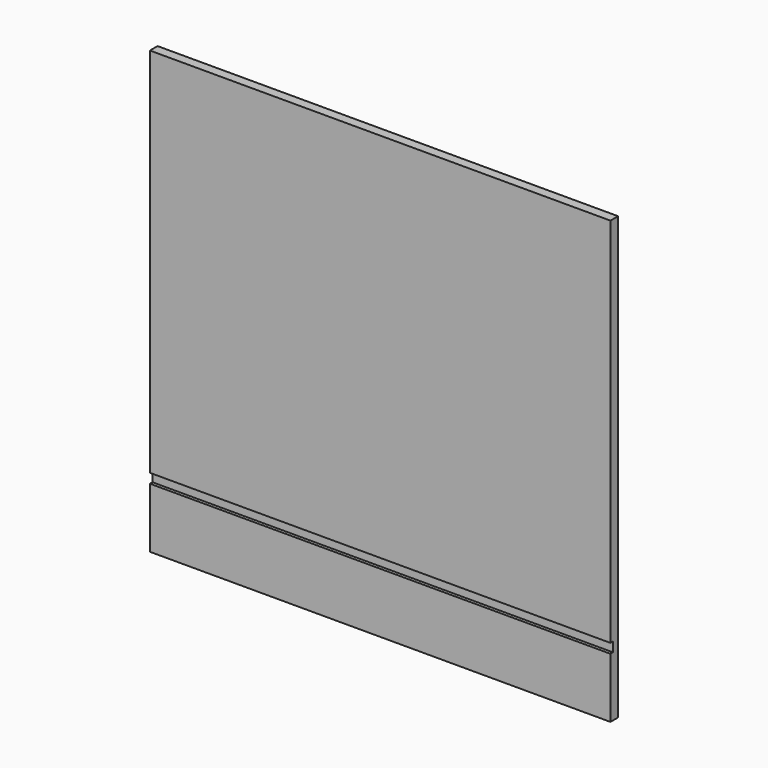
from build123d import *

# Parameters (mm, degrees)
F0_W     = 914.4
F0_H     = 438.15
F1_DEPTH = 9.525
F3_W     = 914.4
F3_H     = 19.05
F4_DEPTH = 6.35


with BuildPart() as f1:
    # F0 (on Front) → F1 (new body, symmetric)
    with BuildSketch(Plane.XZ):
        with Locations((209.2960046741, 219.075)):
            Rectangle(F0_W, F0_H)
        with Locations((209.2960046741, -219.075)):
            Rectangle(F0_W, F0_H)
    extrude(amount=F1_DEPTH, both=True)

    # F3 (on face) → F4 (cut)
    with BuildSketch(Plane.XZ.offset(9.525)):
        with Locations((209.2960046741, -309.5625)):
            Rectangle(F3_W, F3_H)
    extrude(amount=-F4_DEPTH, mode=Mode.SUBTRACT)


solid = f1.part
